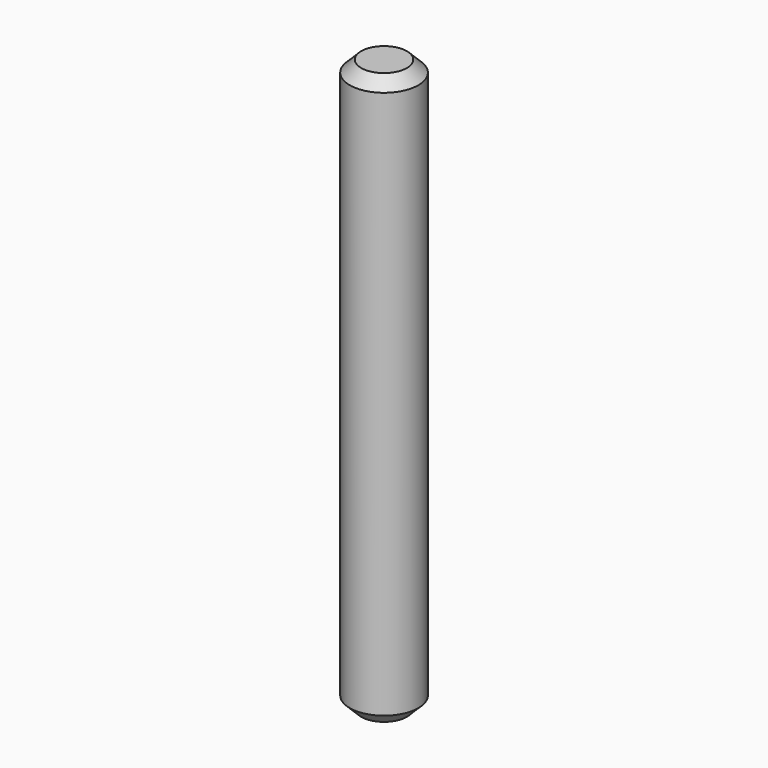
from build123d import *

# Parameters (mm, degrees)
F0_R     = 9.525
F1_DEPTH = 79.375
F2_SIZE  = 3.175


with BuildPart() as f1:
    # F0 (on Top) → F1 (new body, symmetric)
    with BuildSketch(Plane.XY):
        Circle(F0_R)
    extrude(amount=F1_DEPTH, both=True)

    # F2
    f2_edges = [f1.edges().sort_by_distance(p)[0] for p in [
        (-9.525, 0, 79.375),
        (-9.525, 0, -79.375),
    ]]
    chamfer(f2_edges, length=F2_SIZE)


solid = f1.part
